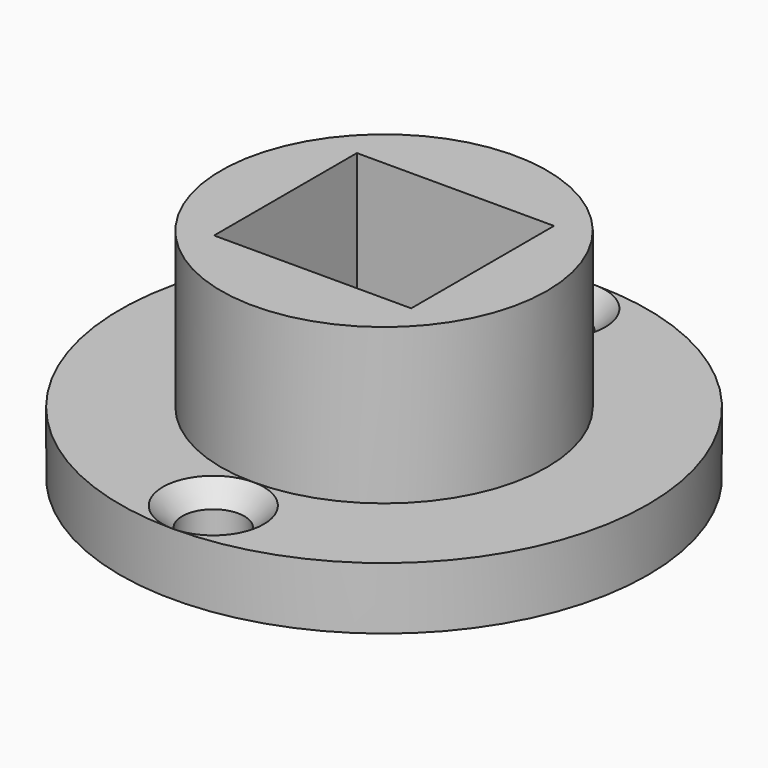
from build123d import *

# Parameters (mm, degrees)
F0_R           = 10.5
F0_W           = 12.7
F0_H           = 11.5
F1_DEPTH       = 14
F4_R           = 17
F4_R_2         = 2
F4_R_3         = 9.1303140993
F5_DEPTH       = 4
F2_W           = 12.7
F2_H           = 2.5
F6_DEPTH       = 5
F7_D           = 4
F7_DEPTH       = 10
F7_CSINK_D     = 6.5
F7_CSINK_ANGLE = 90
F7_TIP         = 1.2017212381


with BuildPart() as f1:
    # F0 (on Top) → F1 (new body)
    with BuildSketch(Plane.XY):
        Circle(F0_R)
        Rectangle(F0_W, F0_H, mode=Mode.SUBTRACT)
    extrude(amount=F1_DEPTH)

    # F4 (on offset) → F5 (join)
    with BuildSketch(Plane.XY.offset(4)):
        Circle(F4_R)
        with Locations((0, -13.75)):
            Circle(F4_R_2, mode=Mode.SUBTRACT)
        Circle(F4_R_3, mode=Mode.SUBTRACT)
        with Locations((0, 13.75)):
            Circle(F4_R_2, mode=Mode.SUBTRACT)
    extrude(amount=-F5_DEPTH)

    # F2 (on face) → F6 (cut)
    with BuildSketch(Plane(origin=(0, 0, 0), x_dir=(1, 0, 0), z_dir=(0, 0, -1))):
        with Locations((0, -7)):
            Rectangle(F2_W, F2_H)
    extrude(amount=-F6_DEPTH, mode=Mode.SUBTRACT)

    # F7
    with Locations(Plane.XY.offset(4)):
        with Locations((0, 13.75), (0, -13.75)):
            CounterSinkHole(F7_D / 2, F7_CSINK_D / 2, depth=F7_DEPTH, counter_sink_angle=F7_CSINK_ANGLE)
            with Locations((0, 0, -(F7_DEPTH + F7_TIP / 2))):  # 118° drill point
                Cone(0, F7_D / 2, F7_TIP, mode=Mode.SUBTRACT)


solid = f1.part
